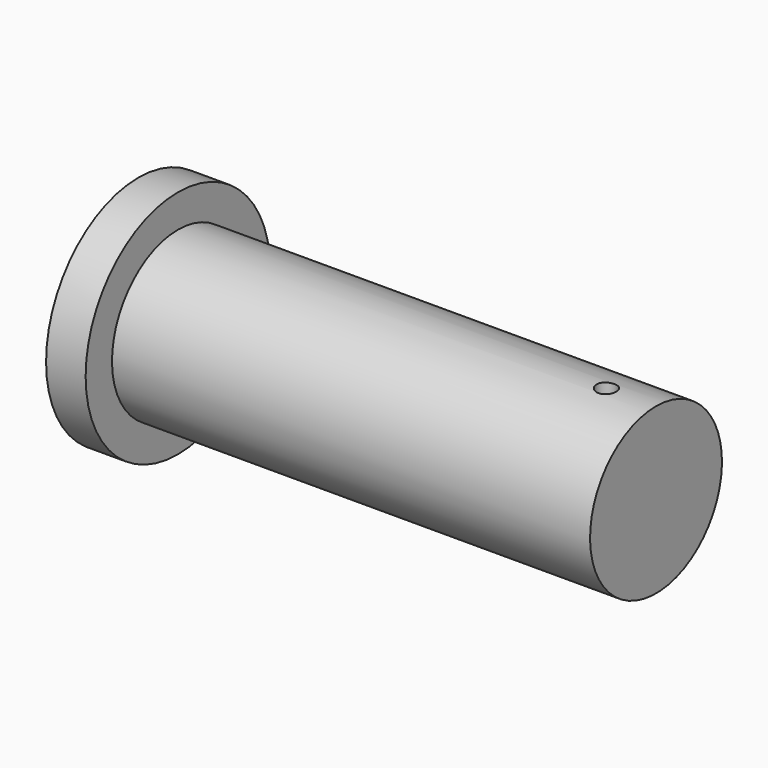
from build123d import *

# Parameters (mm, degrees)
F2_R     = 30
F3_DEPTH = 500


with BuildPart() as f1:
    # F0 (on Front) → F1 (revolve)
    with BuildSketch(Plane.XZ):
        Polygon((-1570, 0), (0, 0), (0, 250), (-1450, 250), (-1450, 350), (-1570, 350), align=None)
    revolve(axis=Axis((-785, 0, 0), (1, 0, 0)))

    # F2 (on Top) → F3 (cut, symmetric)
    with BuildSketch(Plane.XY):
        with Locations((-150, 0)):
            Circle(F2_R)
    extrude(amount=F3_DEPTH, both=True, mode=Mode.SUBTRACT)


solid = f1.part
